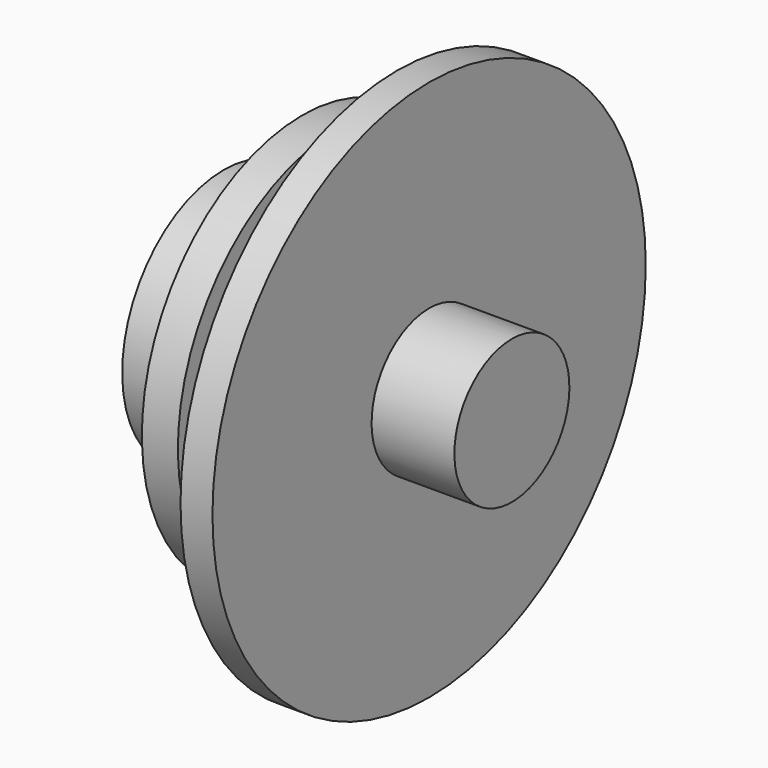
from build123d import *


with BuildPart() as f2:
    # F0 (on Front) → F2 (revolve)
    with BuildSketch(Plane.XZ):
        Polygon((-30.207798, 0), (36.181077, 0), (36.181077, 14.982983), (18.922239, 14.982983), (18.922239, 25.734908), (18.922239, 56.454692), (12.261658, 56.454692), (12.261658, 11.303322), (0, 11.303322), (0, 41.813053), (-7.509276, 41.813053), (-7.509276, 12.629256), (-12.799919, 12.629256), (-12.799919, 26.453137), (-23.893163, 26.453137), (-23.893163, 9.727925), (-30.207798, 9.727925), align=None)
    revolve(axis=Axis((22.101179, 0, 0), (1, 0, 0)))


solid = f2.part
